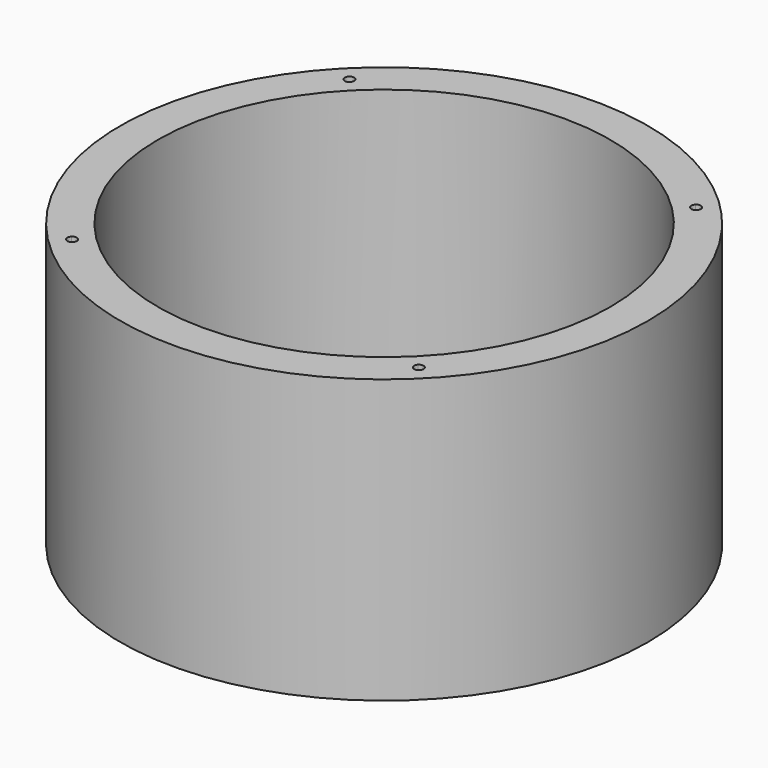
from build123d import *

# Parameters (mm, degrees)
F0_R     = 140
F0_R_2   = 120
F1_DEPTH = 150
F3_DEPTH = 25
F5_DEPTH = 25


with BuildPart() as f1:
    # F0 (on Top) → F1 (new body)
    with BuildSketch(Plane.XY):
        Circle(F0_R)
        Circle(F0_R_2, mode=Mode.SUBTRACT)
    extrude(amount=F1_DEPTH)

    # F2 (on face) → F3 (cut)
    with BuildSketch(Plane.XY.offset(150)):
        with BuildLine():
            ThreePointArc((-91.923882, 91.923882), (-91.035749, 92.803515), (-90.139199, 93.674569))
            ThreePointArc((-90.139199, 93.674569), (-93.691649, 93.691649), (-93.674569, 90.139199))
            ThreePointArc((-93.674569, 90.139199), (-92.803515, 91.035749), (-91.923882, 91.923882))
        make_face()
        with BuildLine():
            Line((-90.156115, 90.156115), (-91.923882, 91.923882))
            ThreePointArc((-91.923882, 91.923882), (-92.803515, 91.035749), (-93.674569, 90.139199))
            ThreePointArc((-93.674569, 90.139199), (-91.911862, 89.42391), (-90.156115, 90.156115))
        make_face()
        with BuildLine():
            ThreePointArc((-89.423882, 91.923882), (-89.60961, 92.869475), (-90.139199, 93.674569))
            ThreePointArc((-90.139199, 93.674569), (-91.035749, 92.803515), (-91.923882, 91.923882))
            Line((-91.923882, 91.923882), (-90.156115, 90.156115))
            ThreePointArc((-90.156115, 90.156115), (-89.614183, 90.967173), (-89.423882, 91.923882))
        make_face()
        with BuildLine():
            ThreePointArc((91.923882, 91.923882), (92.803515, 91.035749), (93.674569, 90.139199))
            ThreePointArc((93.674569, 90.139199), (94.228954, 90.95608), (94.423882, 91.923882))
            ThreePointArc((94.423882, 91.923882), (92.869475, 94.238153), (90.139199, 93.674569))
            ThreePointArc((90.139199, 93.674569), (91.035749, 92.803515), (91.923882, 91.923882))
        make_face()
        with BuildLine():
            Line((90.156115, 90.156115), (91.923882, 91.923882))
            ThreePointArc((91.923882, 91.923882), (91.035749, 92.803515), (90.139199, 93.674569))
            ThreePointArc((90.139199, 93.674569), (89.42391, 91.911862), (90.156115, 90.156115))
        make_face()
        with BuildLine():
            ThreePointArc((90.156115, 90.156115), (91.911862, 89.42391), (93.674569, 90.139199))
            ThreePointArc((93.674569, 90.139199), (92.803515, 91.035749), (91.923882, 91.923882))
            Line((91.923882, 91.923882), (90.156115, 90.156115))
        make_face()
        with BuildLine():
            ThreePointArc((90.139199, -93.674569), (91.035749, -92.803515), (91.923882, -91.923882))
            Line((91.923882, -91.923882), (90.156115, -90.156115))
            ThreePointArc((90.156115, -90.156115), (89.42391, -91.911862), (90.139199, -93.674569))
        make_face()
        with BuildLine():
            ThreePointArc((91.923882, -91.923882), (92.803515, -91.035749), (93.674569, -90.139199))
            ThreePointArc((93.674569, -90.139199), (91.911862, -89.42391), (90.156115, -90.156115))
            Line((90.156115, -90.156115), (91.923882, -91.923882))
        make_face()
        with BuildLine():
            ThreePointArc((94.423882, -91.923882), (94.228954, -90.95608), (93.674569, -90.139199))
            ThreePointArc((93.674569, -90.139199), (92.803515, -91.035749), (91.923882, -91.923882))
            ThreePointArc((91.923882, -91.923882), (91.035749, -92.803515), (90.139199, -93.674569))
            ThreePointArc((90.139199, -93.674569), (92.869475, -94.238153), (94.423882, -91.923882))
        make_face()
        with BuildLine():
            ThreePointArc((-91.923882, -91.923882), (-91.035749, -92.803515), (-90.139199, -93.674569))
            ThreePointArc((-90.139199, -93.674569), (-89.60961, -92.869475), (-89.423882, -91.923882))
            ThreePointArc((-89.423882, -91.923882), (-89.614183, -90.967173), (-90.156115, -90.156115))
            Line((-90.156115, -90.156115), (-91.923882, -91.923882))
        make_face()
        with BuildLine():
            ThreePointArc((-93.674569, -90.139199), (-92.803515, -91.035749), (-91.923882, -91.923882))
            Line((-91.923882, -91.923882), (-90.156115, -90.156115))
            ThreePointArc((-90.156115, -90.156115), (-91.911862, -89.42391), (-93.674569, -90.139199))
        make_face()
        with BuildLine():
            ThreePointArc((-93.674569, -90.139199), (-93.691649, -93.691649), (-90.139199, -93.674569))
            ThreePointArc((-90.139199, -93.674569), (-91.035749, -92.803515), (-91.923882, -91.923882))
            ThreePointArc((-91.923882, -91.923882), (-92.803515, -91.035749), (-93.674569, -90.139199))
        make_face()
    extrude(amount=-F3_DEPTH, mode=Mode.SUBTRACT)

    # F4 (on face) → F5 (cut)
    with BuildSketch(Plane(origin=(0, 0, 0), x_dir=(1, 0, 0), z_dir=(0, 0, -1))):
        with BuildLine():
            ThreePointArc((-91.923882, 91.923882), (-91.035749, 92.803515), (-90.139199, 93.674569))
            ThreePointArc((-90.139199, 93.674569), (-93.691649, 93.691649), (-93.674569, 90.139199))
            ThreePointArc((-93.674569, 90.139199), (-92.803515, 91.035749), (-91.923882, 91.923882))
        make_face()
        with BuildLine():
            Line((-90.156115, 90.156115), (-91.923882, 91.923882))
            ThreePointArc((-91.923882, 91.923882), (-92.803515, 91.035749), (-93.674569, 90.139199))
            ThreePointArc((-93.674569, 90.139199), (-91.911862, 89.42391), (-90.156115, 90.156115))
        make_face()
        with BuildLine():
            ThreePointArc((-89.423882, 91.923882), (-89.60961, 92.869475), (-90.139199, 93.674569))
            ThreePointArc((-90.139199, 93.674569), (-91.035749, 92.803515), (-91.923882, 91.923882))
            Line((-91.923882, 91.923882), (-90.156115, 90.156115))
            ThreePointArc((-90.156115, 90.156115), (-89.614183, 90.967173), (-89.423882, 91.923882))
        make_face()
        with BuildLine():
            ThreePointArc((-93.674569, -90.139199), (-92.803515, -91.035749), (-91.923882, -91.923882))
            Line((-91.923882, -91.923882), (-90.156115, -90.156115))
            ThreePointArc((-90.156115, -90.156115), (-91.911862, -89.42391), (-93.674569, -90.139199))
        make_face()
        with BuildLine():
            ThreePointArc((-91.923882, -91.923882), (-91.035749, -92.803515), (-90.139199, -93.674569))
            ThreePointArc((-90.139199, -93.674569), (-89.60961, -92.869475), (-89.423882, -91.923882))
            ThreePointArc((-89.423882, -91.923882), (-89.614183, -90.967173), (-90.156115, -90.156115))
            Line((-90.156115, -90.156115), (-91.923882, -91.923882))
        make_face()
        with BuildLine():
            ThreePointArc((-93.674569, -90.139199), (-93.691649, -93.691649), (-90.139199, -93.674569))
            ThreePointArc((-90.139199, -93.674569), (-91.035749, -92.803515), (-91.923882, -91.923882))
            ThreePointArc((-91.923882, -91.923882), (-92.803515, -91.035749), (-93.674569, -90.139199))
        make_face()
        with BuildLine():
            ThreePointArc((94.423882, -91.923882), (94.228954, -90.95608), (93.674569, -90.139199))
            ThreePointArc((93.674569, -90.139199), (92.803515, -91.035749), (91.923882, -91.923882))
            ThreePointArc((91.923882, -91.923882), (91.035749, -92.803515), (90.139199, -93.674569))
            ThreePointArc((90.139199, -93.674569), (92.869475, -94.238153), (94.423882, -91.923882))
        make_face()
        with BuildLine():
            ThreePointArc((91.923882, -91.923882), (92.803515, -91.035749), (93.674569, -90.139199))
            ThreePointArc((93.674569, -90.139199), (91.911862, -89.42391), (90.156115, -90.156115))
            Line((90.156115, -90.156115), (91.923882, -91.923882))
        make_face()
        with BuildLine():
            ThreePointArc((90.139199, -93.674569), (91.035749, -92.803515), (91.923882, -91.923882))
            Line((91.923882, -91.923882), (90.156115, -90.156115))
            ThreePointArc((90.156115, -90.156115), (89.42391, -91.911862), (90.139199, -93.674569))
        make_face()
        with BuildLine():
            Line((90.156115, 90.156115), (91.923882, 91.923882))
            ThreePointArc((91.923882, 91.923882), (91.035749, 92.803515), (90.139199, 93.674569))
            ThreePointArc((90.139199, 93.674569), (89.42391, 91.911862), (90.156115, 90.156115))
        make_face()
        with BuildLine():
            ThreePointArc((90.156115, 90.156115), (91.911862, 89.42391), (93.674569, 90.139199))
            ThreePointArc((93.674569, 90.139199), (92.803515, 91.035749), (91.923882, 91.923882))
            Line((91.923882, 91.923882), (90.156115, 90.156115))
        make_face()
        with BuildLine():
            ThreePointArc((91.923882, 91.923882), (92.803515, 91.035749), (93.674569, 90.139199))
            ThreePointArc((93.674569, 90.139199), (94.228954, 90.95608), (94.423882, 91.923882))
            ThreePointArc((94.423882, 91.923882), (92.869475, 94.238153), (90.139199, 93.674569))
            ThreePointArc((90.139199, 93.674569), (91.035749, 92.803515), (91.923882, 91.923882))
        make_face()
    extrude(amount=-F5_DEPTH, mode=Mode.SUBTRACT)


solid = f1.part
